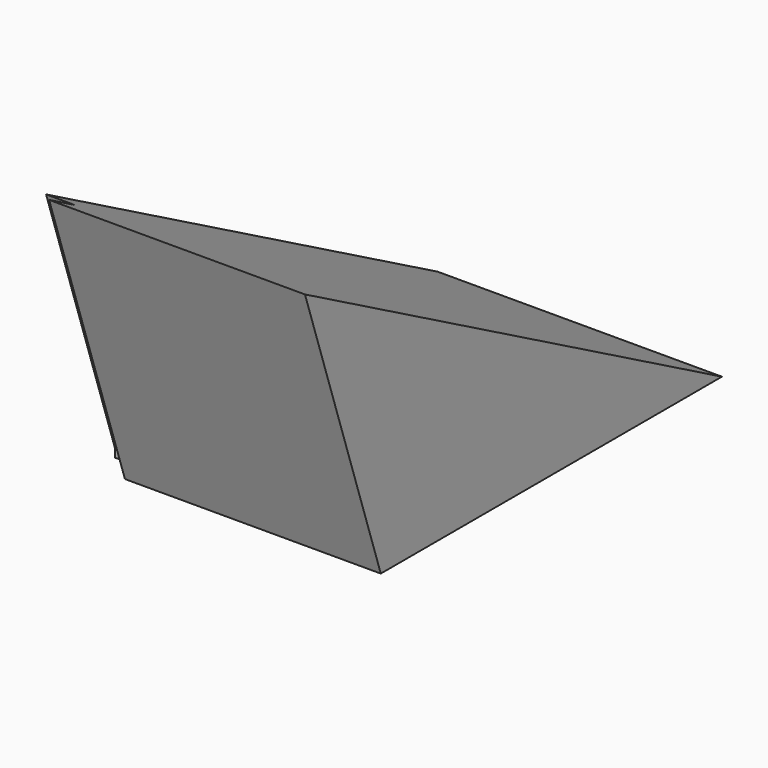
from build123d import *

# Parameters (mm, degrees)
F0_W     = 30
F0_H     = 10
F1_DEPTH = 30
F3_DEPTH = 30.001
F4_W     = 3
F4_H     = 31.6227766017
F5_DEPTH = 2.6
F7_DEPTH = 3


with BuildPart() as f1:
    # F0 (on Top) → F1 (new body)
    with BuildSketch(Plane.XY):
        Polygon((15, 22.5), (-15, 22.5), (-15, -19.5), (-15, -22.5), (15, -22.5), align=None)
        with Locations((0, -27.5)):
            Rectangle(F0_W, F0_H)
    extrude(amount=F1_DEPTH)

    # F2 (on face) → F3 (cut, through all)
    with BuildSketch(Plane.YZ.offset(15)):
        Polygon((-32.5, 0), (-22.5, 0), (-32.5, 30), align=None)
        Polygon((22.5, 30), (-32.5, 30), (22.5, 0), align=None)
    extrude(amount=-F3_DEPTH, mode=Mode.SUBTRACT)

    # F4 (on face) → F5 (cut)
    with BuildSketch(Plane(origin=(0, -20.25, -6.75), x_dir=(1, 0, 0), z_dir=(0, -0.9486832981, -0.316227766))):
        with Locations((-13.5, 22.9265130362)):
            Rectangle(F4_W, F4_H)
    extrude(amount=-F5_DEPTH, mode=Mode.SUBTRACT)

    # F6 (on face) → F7 (cut)
    with BuildSketch(Plane(origin=(-15, 0, 0), x_dir=(0, -1, 0), z_dir=(-1, 0, 0))):
        Polygon((22.5, 0), (20.0334234251, 0.8221921916), (20.0334234251, 0), align=None)
    extrude(amount=-F7_DEPTH, mode=Mode.SUBTRACT)


solid = f1.part
